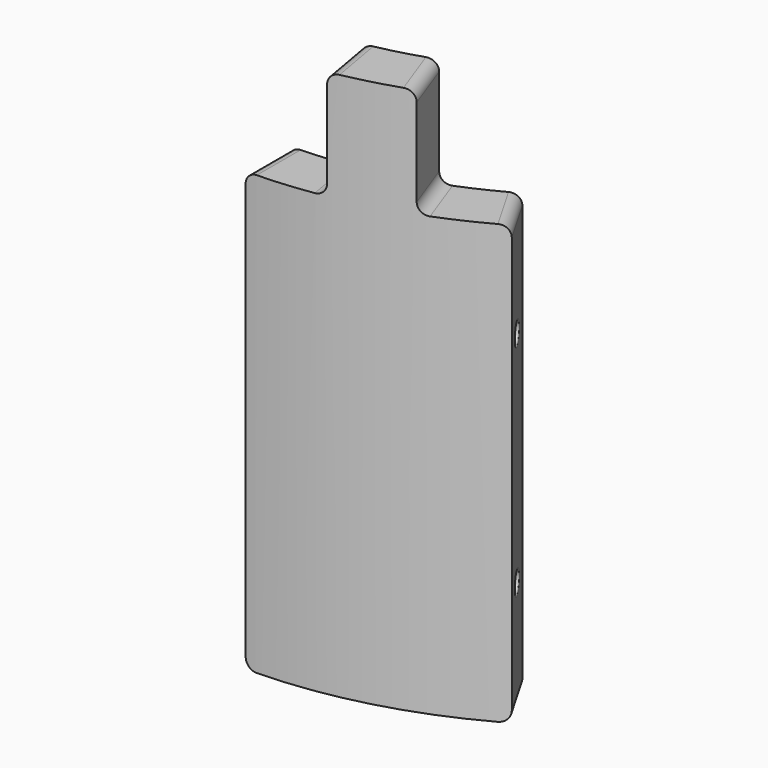
from build123d import *

# Parameters (mm, degrees)
F0_W     = 6.35
F0_H     = 50.8
F2_ANGLE = 30
F3_W     = 6.35
F3_H     = 12.7
F4_ANGLE = 20
F5_ANGLE = 10
F6_R     = 1.27
F7_R     = 1.11125
F9_R     = 0.254


with BuildPart() as f2:
    # F0 (on Right) → F2 (revolve)
    with BuildSketch(Plane.YZ):
        with Locations((-47.625, 25.4)):
            Rectangle(F0_W, F0_H)
    revolve(axis=Axis((0, 0, 29.2990189046), (0, 0, 1)), revolution_arc=F2_ANGLE)

    # F3 (on Right) → F4 (revolve)
    with BuildSketch(Plane.YZ):
        with Locations((-47.625, 57.15)):
            Rectangle(F3_W, F3_H)
    revolve(axis=Axis((0, 0, 29.2990189046), (0, 0, 1)), revolution_arc=F4_ANGLE)

    # F3 (on Right) → F5 (revolve, cut)
    with BuildSketch(Plane.YZ):
        with Locations((-47.625, 57.15)):
            Rectangle(F3_W, F3_H)
    revolve(axis=Axis((0, 0, 29.2990189046), (0, 0, 1)), revolution_arc=F5_ANGLE, mode=Mode.SUBTRACT)

    # F6
    f6_edges = [f2.edges().sort_by_distance(p)[0] for p in [
        (16.288709, -44.752861, 63.5),
        (8.269994, -46.901469, 63.5),
        (23.8125, -41.24446, 50.8),
        (8.269994, -46.901469, 50.8),
        (0, -47.625, 0),
        (23.8125, -41.24446, 0),
        (16.288709, -44.752861, 50.8),
        (0, -47.625, 50.8),
    ]]
    fillet(f6_edges, radius=F6_R)

    # F7 (on Right) → F8 (revolve, cut)
    with BuildSketch(Plane.YZ):
        with Locations((-47.625, 38.1)):
            Circle(F7_R)
        with Locations((-47.625, 12.7)):
            Circle(F7_R)
    revolve(axis=Axis((0, 0, 29.2990189046), (0, 0, 1)), mode=Mode.SUBTRACT)

    # F9
    f9_edges = [f2.edges().sort_by_distance(p)[0] for p in [
        (24.368125, -42.206831, 38.1),
        (24.368125, -42.206831, 12.7),
        (0, -48.73625, 38.1),
        (0, -48.73625, 12.7),
    ]]
    fillet(f9_edges, radius=F9_R)


solid = f2.part
